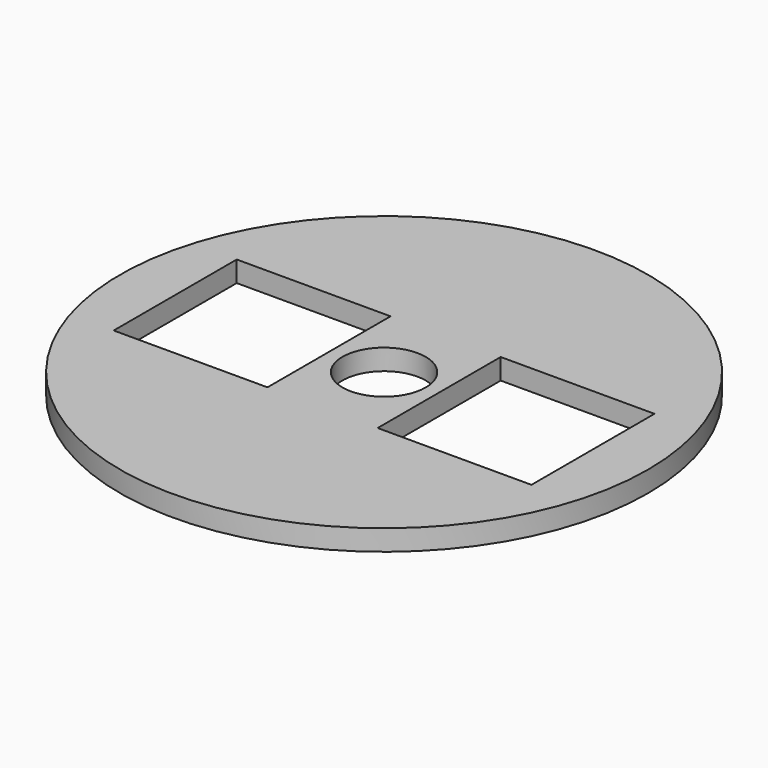
from build123d import *

# Parameters (mm, degrees)
F0_R     = 63.5
F0_W     = 37
F0_H     = 37
F0_R_2   = 10
F1_DEPTH = 5


with BuildPart() as f1:
    # F0 (on Top) → F1 (new body)
    with BuildSketch(Plane.XY):
        Circle(F0_R)
        with Locations((-31.75, 0)):
            Rectangle(F0_W, F0_H, mode=Mode.SUBTRACT)
        Circle(F0_R_2, mode=Mode.SUBTRACT)
        with Locations((31.75, 0)):
            Rectangle(F0_W, F0_H, mode=Mode.SUBTRACT)
    extrude(amount=F1_DEPTH)


solid = f1.part
